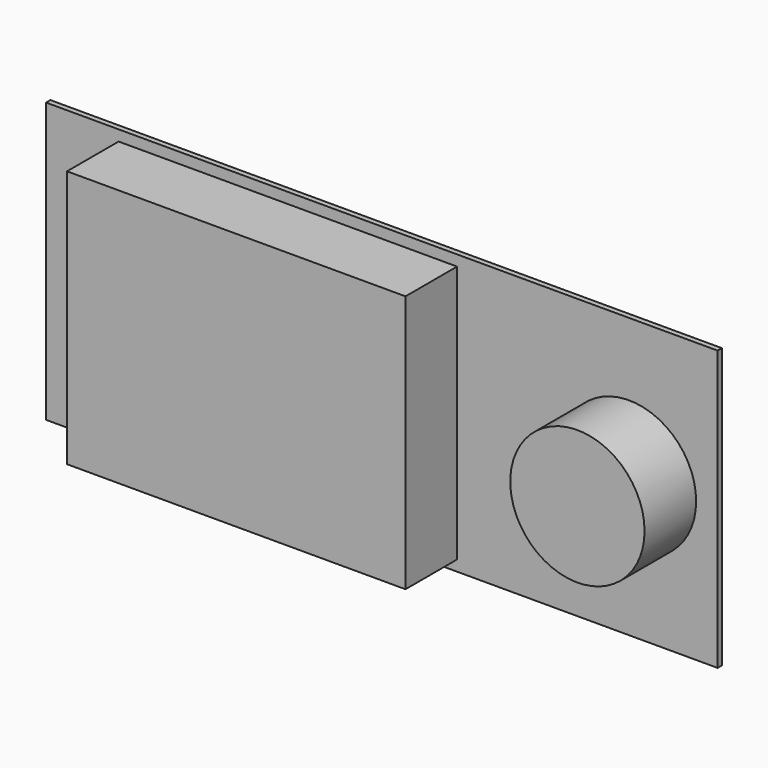
from build123d import *

# Parameters (mm, degrees)
F0_W     = 125
F0_H     = 52
F0_W_2   = 63
F0_H_2   = 48
F0_R     = 12.5
F1_DEPTH = 1
F2_DEPTH = 12


with BuildPart() as f1:
    # F0 (on Front) → F1 (new body)
    with BuildSketch(Plane.XZ):
        Rectangle(F0_W, F0_H)
        with Locations((-17.5, 0)):
            Rectangle(F0_W_2, F0_H_2, mode=Mode.SUBTRACT)
        with Locations((46, 0)):
            Circle(F0_R, mode=Mode.SUBTRACT)
        with Locations((-17.5, 0)):
            Rectangle(F0_W_2, F0_H_2)
        with Locations((46, 0)):
            Circle(F0_R)
    extrude(amount=-F1_DEPTH)

    # F0 (on Front) → F2 (join)
    with BuildSketch(Plane.XZ):
        with Locations((-17.5, 0)):
            Rectangle(F0_W_2, F0_H_2)
        with Locations((46, 0)):
            Circle(F0_R)
    extrude(amount=F2_DEPTH)


solid = f1.part
